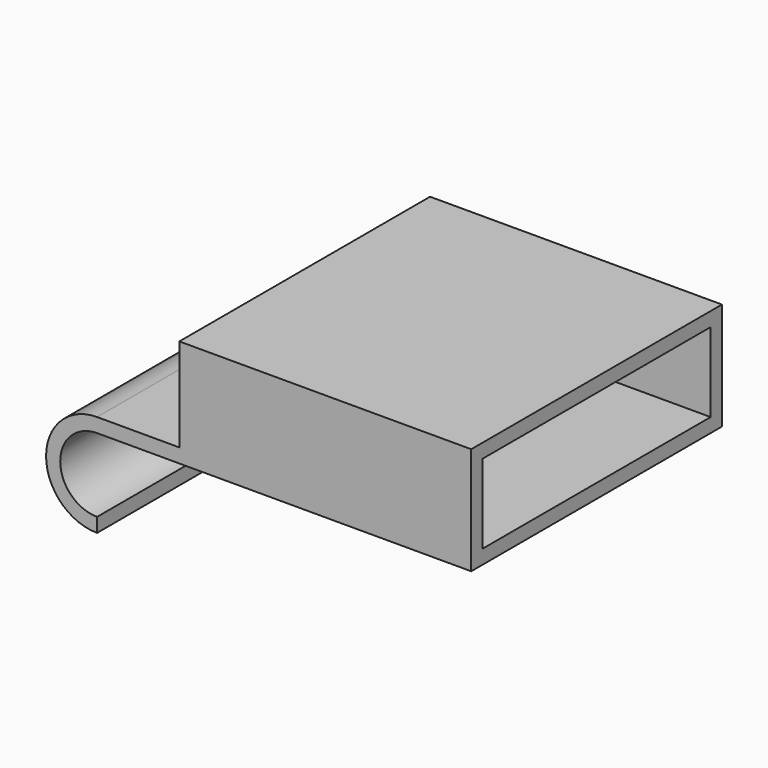
from build123d import *

# Parameters (mm, degrees)
F1_DEPTH = 70.358
F2_W     = 70.358
F2_H     = 20.955
F3_DEPTH = 65.532
F4_W     = 64.008
F4_H     = 17.78
F5_DEPTH = 93.472


with BuildPart() as f1:
    # F0 (on Front) → F1 (new body)
    with BuildSketch(Plane.XZ):
        with BuildLine():
            ThreePointArc((0, -19.731941), (-8.27847, -11.45347), (0, -3.175))
            Line((0, -3.175), (84, -3.175))
            Line((84, -3.175), (84, 0))
            Line((84, 0), (0, 0))
            ThreePointArc((0, 0), (-11.45347, -11.45347), (0, -22.906941))
            Line((0, -22.906941), (0, -19.731941))
        make_face()
    extrude(amount=F1_DEPTH)

    # F2 (on face) → F3 (join)
    with BuildSketch(Plane.YZ.offset(84)):
        with Locations((-35.179, 10.4775)):
            Rectangle(F2_W, F2_H)
    extrude(amount=-F3_DEPTH)

    # F4 (on face) → F5 (cut)
    with BuildSketch(Plane.YZ.offset(84)):
        with Locations((-35.179, 8.89)):
            Rectangle(F4_W, F4_H)
    extrude(amount=-F5_DEPTH, mode=Mode.SUBTRACT)


solid = f1.part
